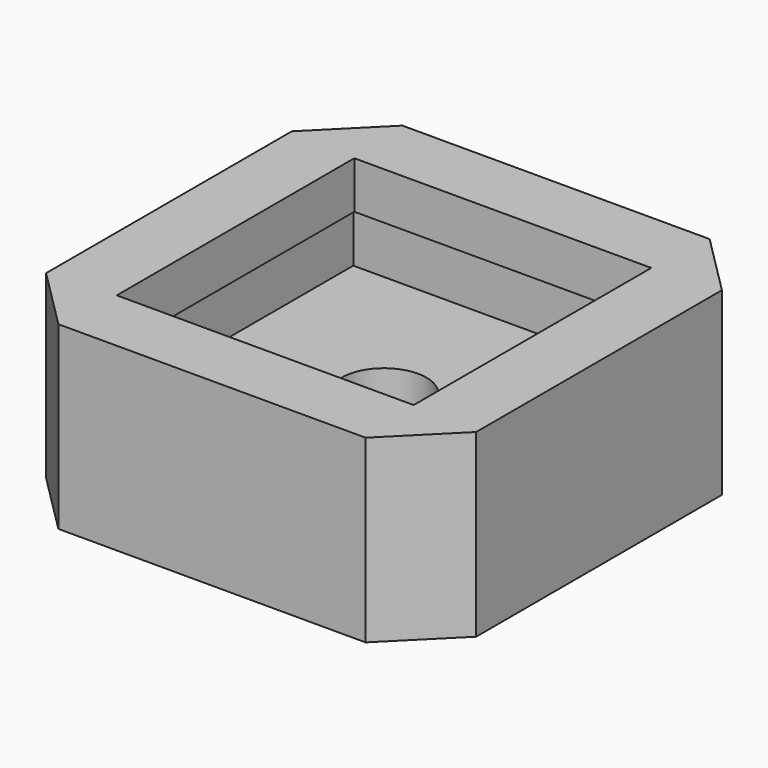
from build123d import *

# Parameters (mm, degrees)
SKETCH_W         = 21
SKETCH_H         = 21
SKETCH_W_2       = 15
SKETCH_H_2       = 15
PAD_DEPTH        = 2.5
SKETCH001_W      = 21
SKETCH001_H      = 21
SKETCH001_R      = 2.075
PAD001_DEPTH     = 4
SKETCH002_W      = 21
SKETCH002_H      = 21
SKETCH002_W_2    = 14.5
SKETCH002_H_2    = 14.5
PAD002_DEPTH     = 2.3
CHAMFER_SIZE     = 3
SKETCH003_R      = 0.75
POCKET_DEPTH     = 8.801
CHAMFER001_SIZE2 = 3.999
CHAMFER001_SIZE  = 1.8


with BuildPart() as part:
    # Sketch → Pad (new body)
    with BuildSketch(Plane.XY):
        Rectangle(SKETCH_W, SKETCH_H)
        Rectangle(SKETCH_W_2, SKETCH_H_2, mode=Mode.SUBTRACT)
    extrude(amount=PAD_DEPTH)

    # Sketch001 (on Face9 of Pad) → Pad001 (join)
    with BuildSketch(Plane(origin=(0, 0, 0), x_dir=(1, 0, 0), z_dir=(0, 0, -1))):
        Rectangle(SKETCH001_W, SKETCH001_H)
        Circle(SKETCH001_R, mode=Mode.SUBTRACT)
    extrude(amount=PAD001_DEPTH)

    # Sketch002 (on Face5 of Pad001) → Pad002 (join)
    with BuildSketch(Plane.XY.offset(2.5)):
        Rectangle(SKETCH002_W, SKETCH002_H)
        Rectangle(SKETCH002_W_2, SKETCH002_H_2, mode=Mode.SUBTRACT)
    extrude(amount=PAD002_DEPTH)

    # Chamfer
    chamfer_edges = [part.edges().sort_by_distance(p)[0] for p in [
        (-10.5, -10.5, -2),
        (10.5, -10.5, -2),
        (10.5, 10.5, -2),
        (-10.5, 10.5, -2),
    ]]
    chamfer(chamfer_edges, length=CHAMFER_SIZE)

    # Sketch003 (on Face8 of Chamfer) → Pocket (cut, through all)
    with BuildSketch(Plane(origin=(0, 0, -4), x_dir=(1, 0, 0), z_dir=(0, 0, -1))):
        with Locations((4, 2.85)):
            Circle(SKETCH003_R)
        with Locations((-2.9, 5)):
            Circle(SKETCH003_R)
    extrude(amount=-POCKET_DEPTH, mode=Mode.SUBTRACT)

    # Chamfer001
    chamfer001_edges = [part.edges().sort_by_distance(p)[0] for p in [
        (3.25, -2.85, -4),
        (-3.65, -5, -4),
    ]]
    chamfer001_side = part.faces().sort_by_distance((0, -10.203015, -4))[0]
    chamfer(chamfer001_edges, length=CHAMFER001_SIZE, length2=CHAMFER001_SIZE2, reference=chamfer001_side)


solid = part.part
